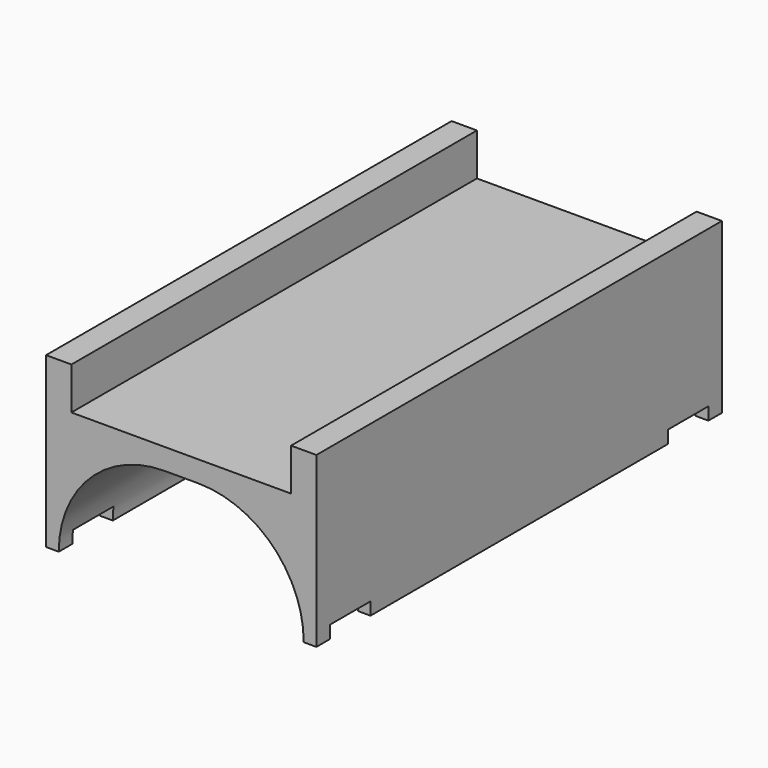
from build123d import *

# Parameters (mm, degrees)
SKETCH_W        = 32
SKETCH_H        = 20
PAD_DEPTH       = 60
SKETCH001_W     = 26
SKETCH001_H     = 5
POCKET_DEPTH    = 60.001
POCKET001_DEPTH = 60.001
SKETCH003_W     = 1.5
SKETCH003_H     = 6
POCKET002_DEPTH = 32.001


with BuildPart() as part:
    # Sketch → Pad (new body)
    with BuildSketch(Plane.XZ):
        with Locations((0, 10)):
            Rectangle(SKETCH_W, SKETCH_H)
    extrude(amount=PAD_DEPTH)

    # Sketch001 (on Face6 of Pad) → Pocket (cut, through all)
    with BuildSketch(Plane.XZ.offset(60)):
        with Locations((0, 17.5)):
            Rectangle(SKETCH001_W, SKETCH001_H)
    extrude(amount=-POCKET_DEPTH, mode=Mode.SUBTRACT)

    # Sketch002 (on Face5 of Pocket) → Pocket001 (cut, through all)
    with BuildSketch(Plane.XZ.offset(60)):
        with BuildLine():
            ThreePointArc((-2.000029, 12.5), (-10.838845, 8.838824), (-14.5, 0))
            Line((-14.5, 0), (14.5, 0))
            ThreePointArc((14.5, 0), (10.838845, 8.838824), (2.000029, 12.5))
            Line((-2.000029, 12.5), (2.000029, 12.5))
        make_face()
    extrude(amount=-POCKET001_DEPTH, mode=Mode.SUBTRACT)

    # Sketch003 (on Face9 of Pocket001) → Pocket002 (cut, through all)
    with BuildSketch(Plane(origin=(16, 0, 0), x_dir=(0, 0, 1), z_dir=(1, 0, 0))):
        with Locations((0.75, 55)):
            Rectangle(SKETCH003_W, SKETCH003_H)
        with Locations((0.75, 5)):
            Rectangle(SKETCH003_W, SKETCH003_H)
    extrude(amount=-POCKET002_DEPTH, mode=Mode.SUBTRACT)


solid = part.part
